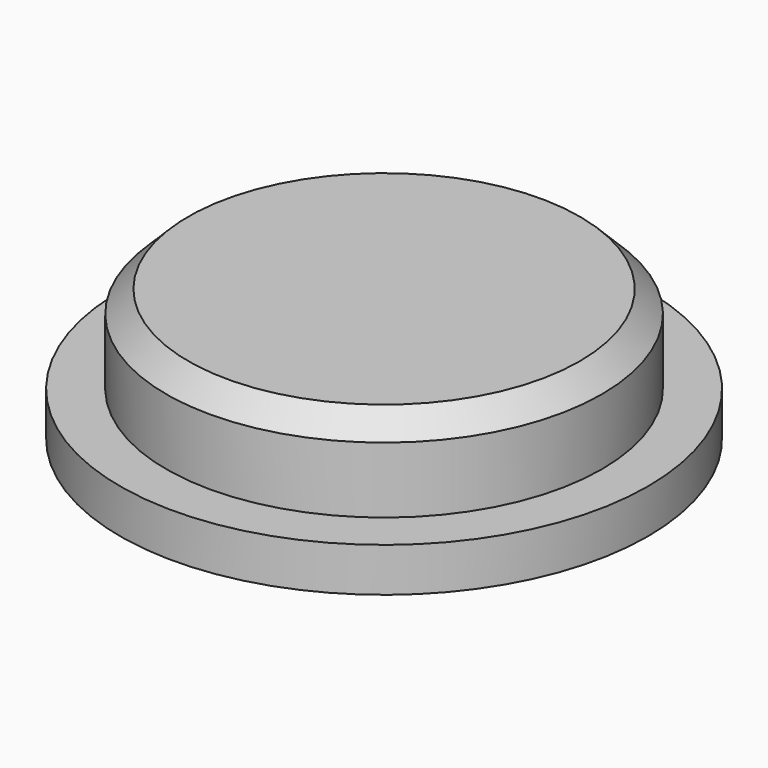
from build123d import *

# Parameters (mm, degrees)
F0_R     = 4.95
F1_DEPTH = 3
F2_R     = 6
F2_R_2   = 4.95
F3_DEPTH = 1
F4_SIZE  = 0.5


with BuildPart() as f1:
    # F0 (on Top) → F1 (new body)
    with BuildSketch(Plane.XY):
        with Locations((-42.84095, 43.441828)):
            Circle(F0_R)
    extrude(amount=F1_DEPTH)

    # F2 (on face) → F3 (join)
    with BuildSketch(Plane(origin=(0, 0, 0), x_dir=(1, 0, 0), z_dir=(0, 0, -1))):
        with Locations((-42.84095, -43.441828)):
            Circle(F2_R)
        with Locations((-42.84095, -43.441828)):
            Circle(F2_R_2, mode=Mode.SUBTRACT)
    extrude(amount=-F3_DEPTH)

    # F4
    f4_edges = [f1.edges().sort_by_distance(p)[0] for p in [
        (-47.79095, 43.441828, 3),
    ]]
    chamfer(f4_edges, length=F4_SIZE)


solid = f1.part
